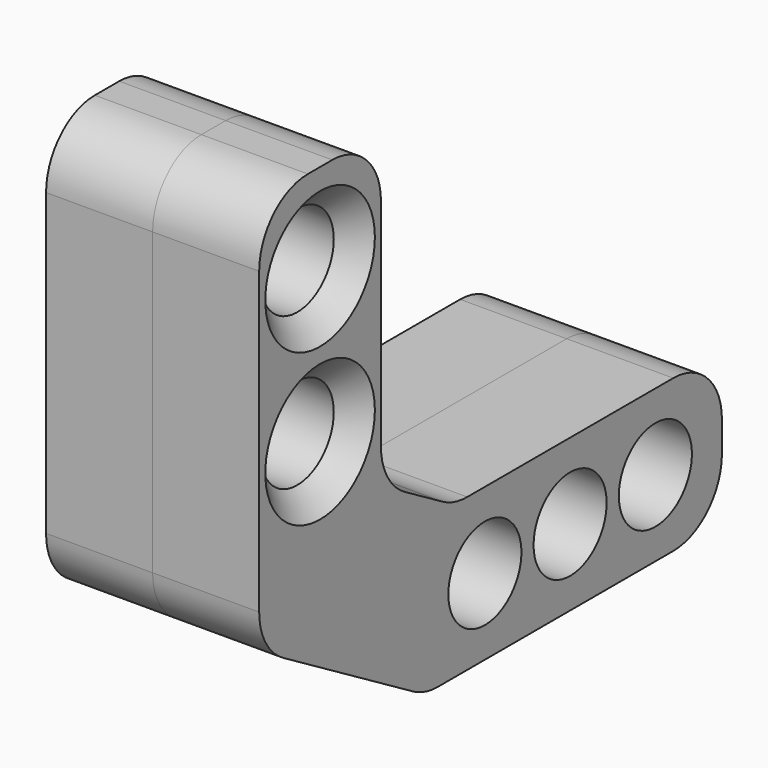
from build123d import *

# Parameters (mm, degrees)
F1_DEPTH       = 3.5
F2_D           = 3
F2_CSINK_D     = 4.5
F2_CSINK_ANGLE = 90
F4_D           = 3
F4_CSINK_D     = 4.5
F4_CSINK_ANGLE = 90


with BuildPart() as f1:
    # F0 (on Right) → F1 (new body)
    with BuildSketch(Plane.YZ):
        with BuildLine():
            Line((7.517485, 14.847486), (7.517485, 4.991017))
            ThreePointArc((7.517485, 4.991017), (7.781251, 3.998298), (8.502976, 3.267424))
            Line((8.502976, 3.267424), (13.843657, 0.123893))
            ThreePointArc((13.843657, 0.123893), (14.332421, -0.082176), (14.858165, -0.152514))
            Line((14.858165, -0.152514), (24.517485, -0.152514))
            ThreePointArc((24.517485, -0.152514), (25.931699, 0.433272), (26.517485, 1.847486))
            Line((26.517485, 1.847486), (26.517485, 2.347486))
            Line((26.517485, 2.347486), (26.517485, 2.847486))
            ThreePointArc((26.517485, 2.847486), (25.931699, 4.261699), (24.517485, 4.847486))
            Line((24.517485, 4.847486), (16.062394, 4.847486))
            ThreePointArc((16.062394, 4.847486), (15.536649, 4.917824), (15.047885, 5.123893))
            Line((15.047885, 5.123893), (13.502976, 6.033228))
            ThreePointArc((13.502976, 6.033228), (12.781251, 6.764102), (12.517485, 7.756821))
            Line((12.517485, 7.756821), (12.517485, 14.847486))
            ThreePointArc((12.517485, 14.847486), (11.931699, 16.261699), (10.517485, 16.847486))
            Line((10.517485, 16.847486), (10.017485, 16.847486))
            Line((10.017485, 16.847486), (9.517485, 16.847486))
            ThreePointArc((9.517485, 16.847486), (8.103272, 16.261699), (7.517485, 14.847486))
        make_face()
    extrude(amount=-F1_DEPTH)

    # F2 (through all)
    with Locations(Plane.YZ):
        with Locations((23.784457, 2.347486), (20.284457, 2.347486), (16.784457, 2.347486)):
            CounterSinkHole(F2_D / 2, F2_CSINK_D / 2, counter_sink_angle=F2_CSINK_ANGLE)

    # F4 (through all)
    with Locations(Plane(origin=(-3.5, 0, 0), x_dir=(0, -1, 0), z_dir=(-1, 0, 0))):
        with Locations((-10.017485, 13.90345), (-10.017485, 8.90345)):
            CounterSinkHole(F4_D / 2, F4_CSINK_D / 2, counter_sink_angle=F4_CSINK_ANGLE)


with BuildPart() as f5_1:
    # F5: instance of F1
    add(f1.part.mirror(Plane.YZ))


solid = Compound([f1.part, f5_1.part])
